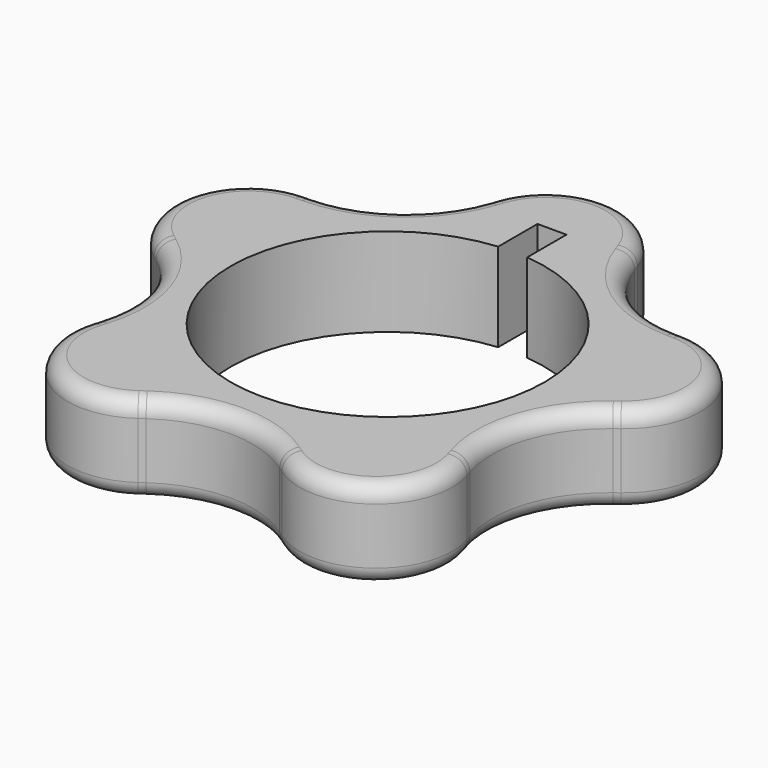
from build123d import *

# Parameters (mm, degrees)
PAD_DEPTH   = 11
FILLET_R    = 2
FILLET001_R = 2


with BuildPart() as part:
    # Sketch → Pad (new body)
    with BuildSketch(Plane.XY):
        with BuildLine():
            Line((8.980158, 27.574567), (9.237406, 26.820266))
            ThreePointArc((9.237406, 26.820266), (14.400739, 19.820916), (22.653073, 17.073213))
            Line((22.653073, 17.073213), (23.44995, 17.061648))
            ThreePointArc((28.999993, -0.019628), (32.335922, 10.506578), (23.44995, 17.061648))
            Line((28.999993, -0.019628), (28.362104, -0.497377))
            ThreePointArc((28.362104, -0.497377), (23.300885, -7.570916), (23.237775, -16.26844))
            Line((23.237775, -16.26844), (23.473025, -17.029889))
            ThreePointArc((8.942823, -27.586698), (19.984699, -27.506578), (23.473025, -17.029889))
            Line((8.942823, -27.586698), (8.291338, -27.127662))
            ThreePointArc((8.291338, -27.127662), (0, -24.5), (-8.291338, -27.127662))
            Line((-8.291338, -27.127662), (-8.942823, -27.586698))
            ThreePointArc((-23.473025, -17.029889), (-19.984699, -27.506578), (-8.942823, -27.586698))
            Line((-23.473025, -17.029889), (-23.237775, -16.26844))
            ThreePointArc((-23.237775, -16.26844), (-23.300885, -7.570916), (-28.362104, -0.497377))
            Line((-28.362104, -0.497377), (-28.999993, -0.019628))
            ThreePointArc((-23.44995, 17.061648), (-32.335922, 10.506578), (-28.999993, -0.019628))
            Line((-23.44995, 17.061648), (-22.653073, 17.073213))
            ThreePointArc((-22.653073, 17.073213), (-14.400739, 19.820916), (-9.237406, 26.820266))
            Line((-9.237406, 26.820266), (-8.980158, 27.574567))
            ThreePointArc((8.980158, 27.574567), (0, 34), (-8.980158, 27.574567))
        make_face()
        with BuildLine():
            ThreePointArc((-1.8, 19.416745), (0, -19.5), (1.8, 19.416745))
            Line((1.8, 19.416745), (1.8, 25.516745))
            Line((-1.8, 25.516745), (1.8, 25.516745))
            Line((-1.8, 19.416745), (-1.8, 25.516745))
        make_face(mode=Mode.SUBTRACT)
    extrude(amount=PAD_DEPTH)

    # Fillet
    fillet_edges = [part.edges().sort_by_distance(p)[0] for p in [
        (23.300885, -7.570916, 11),
    ]]
    fillet(fillet_edges, radius=FILLET_R)

    # Fillet001
    fillet001_edges = [part.edges().sort_by_distance(p)[0] for p in [
        (23.300885, -7.570916, 0),
    ]]
    fillet(fillet001_edges, radius=FILLET001_R)


solid = part.part
